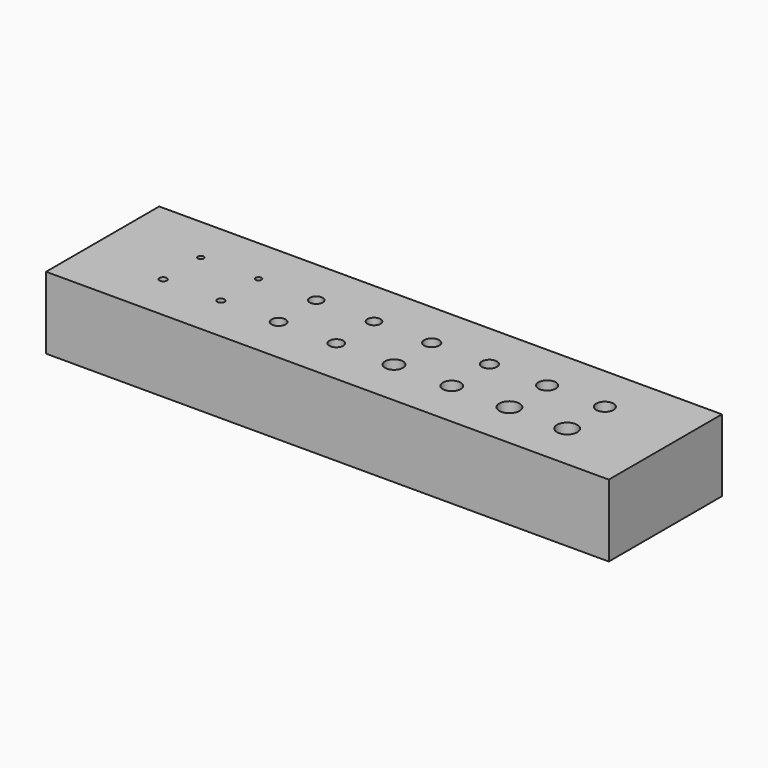
from build123d import *

# Parameters (mm, degrees)
F0_W     = 195
F0_H     = 49
F0_R     = 1.25
F0_R_2   = 2.4
F0_R_3   = 3.1
F0_R_4   = 3.5
F0_R_5   = 1
F0_R_6   = 2.25
F0_R_7   = 2.6
F0_R_8   = 3
F1_DEPTH = 25
F2_DEPTH = 10
F3_DEPTH = 15
F4_DEPTH = 7


with BuildPart() as f1:
    # F0 (on Top) → F1 (new body)
    with BuildSketch(Plane.XY):
        with Locations((97.5, 24.5)):
            Rectangle(F0_W, F0_H)
        with Locations((27.5, 16.333333)):
            Circle(F0_R, mode=Mode.SUBTRACT)
        with Locations((47.5, 16.333333)):
            Circle(F0_R, mode=Mode.SUBTRACT)
        with Locations((67.5, 16.333333)):
            Circle(F0_R_2, mode=Mode.SUBTRACT)
        with Locations((87.5, 16.333333)):
            Circle(F0_R_2, mode=Mode.SUBTRACT)
        with Locations((107.5, 16.333333)):
            Circle(F0_R_3, mode=Mode.SUBTRACT)
        with Locations((127.5, 16.333333)):
            Circle(F0_R_3, mode=Mode.SUBTRACT)
        with Locations((147.5, 16.333333)):
            Circle(F0_R_4, mode=Mode.SUBTRACT)
        with Locations((167.5, 16.333333)):
            Circle(F0_R_4, mode=Mode.SUBTRACT)
        with Locations((27.5, 32.666667)):
            Circle(F0_R_5, mode=Mode.SUBTRACT)
        with Locations((47.5, 32.666667)):
            Circle(F0_R_5, mode=Mode.SUBTRACT)
        with Locations((67.5, 32.666667)):
            Circle(F0_R_6, mode=Mode.SUBTRACT)
        with Locations((87.5, 32.666667)):
            Circle(F0_R_6, mode=Mode.SUBTRACT)
        with Locations((107.5, 32.666667)):
            Circle(F0_R_7, mode=Mode.SUBTRACT)
        with Locations((127.5, 32.666667)):
            Circle(F0_R_7, mode=Mode.SUBTRACT)
        with Locations((147.5, 32.666667)):
            Circle(F0_R_8, mode=Mode.SUBTRACT)
        with Locations((167.5, 32.666667)):
            Circle(F0_R_8, mode=Mode.SUBTRACT)
        with Locations((27.5, 32.666667)):
            Circle(F0_R_5)
        with Locations((27.5, 16.333333)):
            Circle(F0_R)
        with Locations((47.5, 16.333333)):
            Circle(F0_R)
        with Locations((47.5, 32.666667)):
            Circle(F0_R_5)
        with Locations((67.5, 32.666667)):
            Circle(F0_R_6)
        with Locations((67.5, 16.333333)):
            Circle(F0_R_2)
        with Locations((87.5, 32.666667)):
            Circle(F0_R_6)
        with Locations((87.5, 16.333333)):
            Circle(F0_R_2)
        with Locations((107.5, 16.333333)):
            Circle(F0_R_3)
        with Locations((107.5, 32.666667)):
            Circle(F0_R_7)
        with Locations((147.5, 32.666667)):
            Circle(F0_R_8)
        with Locations((127.5, 32.666667)):
            Circle(F0_R_7)
        with Locations((127.5, 16.333333)):
            Circle(F0_R_3)
        with Locations((147.5, 16.333333)):
            Circle(F0_R_4)
        with Locations((167.5, 32.666667)):
            Circle(F0_R_8)
        with Locations((167.5, 16.333333)):
            Circle(F0_R_4)
    extrude(amount=-F1_DEPTH)

    # F0 (on Top) → F2 (cut)
    with BuildSketch(Plane.XY):
        with Locations((27.5, 32.666667)):
            Circle(F0_R_5)
        with Locations((47.5, 32.666667)):
            Circle(F0_R_5)
        with Locations((27.5, 16.333333)):
            Circle(F0_R)
        with Locations((47.5, 16.333333)):
            Circle(F0_R)
        with Locations((107.5, 32.666667)):
            Circle(F0_R_7)
        with Locations((107.5, 16.333333)):
            Circle(F0_R_3)
        with Locations((127.5, 32.666667)):
            Circle(F0_R_7)
        with Locations((127.5, 16.333333)):
            Circle(F0_R_3)
    extrude(amount=-F2_DEPTH, mode=Mode.SUBTRACT)

    # F0 (on Top) → F3 (cut)
    with BuildSketch(Plane.XY):
        with Locations((67.5, 32.666667)):
            Circle(F0_R_6)
        with Locations((87.5, 32.666667)):
            Circle(F0_R_6)
        with Locations((87.5, 16.333333)):
            Circle(F0_R_2)
        with Locations((67.5, 16.333333)):
            Circle(F0_R_2)
    extrude(amount=-F3_DEPTH, mode=Mode.SUBTRACT)

    # F0 (on Top) → F4 (cut)
    with BuildSketch(Plane.XY):
        with Locations((147.5, 32.666667)):
            Circle(F0_R_8)
        with Locations((147.5, 16.333333)):
            Circle(F0_R_4)
        with Locations((167.5, 16.333333)):
            Circle(F0_R_4)
        with Locations((167.5, 32.666667)):
            Circle(F0_R_8)
    extrude(amount=-F4_DEPTH, mode=Mode.SUBTRACT)


solid = f1.part
